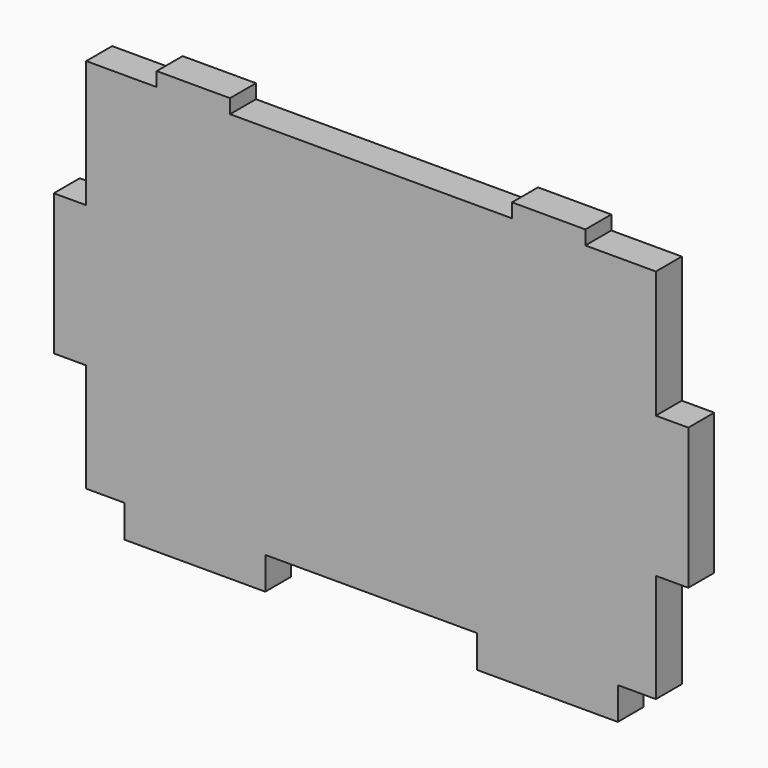
from build123d import *

# Parameters (mm, degrees)
F0_W     = 114.3
F0_H     = 76.2
F1_DEPTH = 5.842
F2_W     = 38.1
F2_H     = 5.842
F2_W_2   = 50.8
F2_H_2   = 2.54
F2_W_3   = 12.7
F3_DEPTH = 5.842


with BuildPart() as f1:
    # F0 (on Front) → F1 (new body)
    with BuildSketch(Plane.XZ):
        with Locations((8.984796, -9.193169)):
            Rectangle(F0_W, F0_H)
    extrude(amount=F1_DEPTH)

    # F2 (on face) → F3 (cut, through all)
    with BuildSketch(Plane.XZ.offset(5.842)):
        Polygon((-48.165204, 28.906831), (-48.165204, 3.506831), (-42.323204, 3.506831), (-42.323204, 26.366831), (-42.323204, 28.906831), align=None)
        Polygon((-48.165204, -47.293169), (-35.465204, -47.293169), (-35.465204, -41.451169), (-42.323204, -41.451169), (-42.323204, -21.893169), (-48.165204, -21.893169), align=None)
        with Locations((8.984796, -44.372169)):
            Rectangle(F2_W, F2_H)
        Polygon((53.434796, -41.451169), (53.434796, -47.293169), (66.134796, -47.293169), (66.134796, -21.893169), (60.292796, -21.893169), (60.292796, -41.451169), align=None)
        Polygon((60.292796, 3.506831), (66.134796, 3.506831), (66.134796, 28.906831), (60.292796, 28.906831), (60.292796, 26.366831), align=None)
        with Locations((8.984796, 27.636831)):
            Rectangle(F2_W_2, F2_H_2)
        with Locations((-35.973204, 27.636831)):
            Rectangle(F2_W_3, F2_H_2)
        with Locations((53.942796, 27.636831)):
            Rectangle(F2_W_3, F2_H_2)
    extrude(amount=-F3_DEPTH, mode=Mode.SUBTRACT)


solid = f1.part
